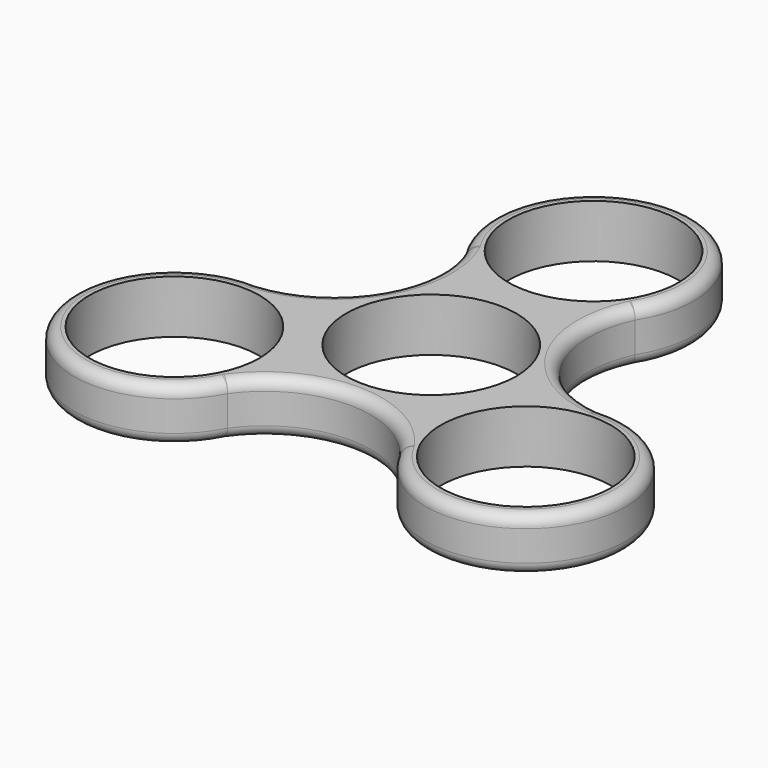
from build123d import *

# Parameters (mm, degrees)
F0_R     = 11.2
F1_DEPTH = 7
F2_R     = 1.5


with BuildPart() as f1:
    # F0 (on Top) → F1 (new body)
    with BuildSketch(Plane.XY):
        with BuildLine():
            ThreePointArc((22.3972222345, -0.1780444605), (11.6219084102, 6.8053952105), (11.1419447663, 19.6368196267))
            ThreePointArc((11.1419447663, 19.6368196267), (-0.0899760733, 39.914441113), (-11.0444200915, 19.4855856595))
            ThreePointArc((-11.0444200915, 19.4855856595), (-11.7045993402, 6.6621703185), (-22.5769570295, -0.1692025982))
            ThreePointArc((-22.5769570295, -0.1692025982), (-34.5219319451, -20.0351421217), (-11.352802143, -19.3075411991))
            ThreePointArc((-11.352802143, -19.3075411991), (0.08269093, -13.467565529), (11.4350122631, -19.4676170286))
            ThreePointArc((11.4350122631, -19.4676170286), (34.6119080183, -19.8792989913), (22.3972222345, -0.1780444605))
        make_face()
        with Locations((-23.1356502259, -13.3573738858)):
            Circle(F0_R, mode=Mode.SUBTRACT)
        with Locations((23.1356502259, -13.3573738858)):
            Circle(F0_R, mode=Mode.SUBTRACT)
        Circle(F0_R, mode=Mode.SUBTRACT)
        with Locations((0, 26.7147477716)):
            Circle(F0_R, mode=Mode.SUBTRACT)
    extrude(amount=F1_DEPTH)

    # F2 (call 1 of 2: OpenCascade refuses the feature's edges together)
    f2_edges = [f1.edges().sort_by_distance(p)[0] for p in [
        (-34.521932, -20.035142, 7),
        (-11.704599, 6.66217, 7),
        (34.611908, -19.879299, 7),
        (-0.089976, 39.914441, 7),
        (0.082691, -13.467566, 7),
        (11.621908, 6.805395, 7),
    ]]
    fillet(f2_edges, radius=F2_R)

    # F2#2 (call 2 of 2)
    f2_2_edges = [f1.edges().sort_by_distance(p)[0] for p in [
        (34.611908, -19.879299, 0),
        (0.082691, -13.467566, 0),
        (-34.521932, -20.035142, 0),
        (-0.089976, 39.914441, 0),
        (11.621908, 6.805395, 0),
        (-11.704599, 6.66217, 0),
    ]]
    fillet(f2_2_edges, radius=F2_R)


solid = f1.part
